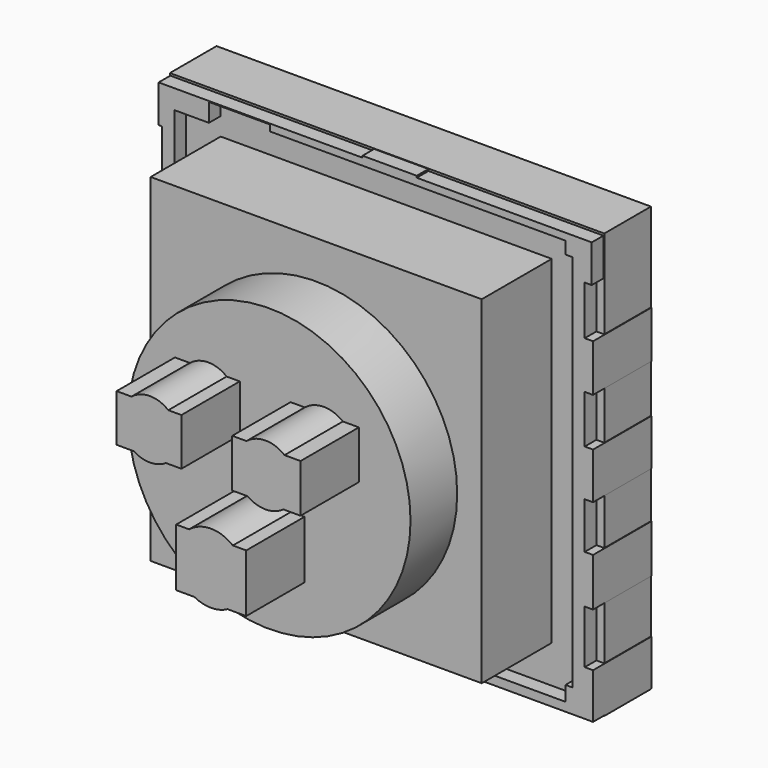
from build123d import *

# Parameters (mm, degrees)
F1_W      = 151.3319835067
F1_H      = 147.9758322239
F2_DEPTH  = 20.066
F3_W      = 75.2840787172
F3_H      = 76.1998519301
F3_H_2    = 71.7759802938
F3_W_2    = 76.0479047894
F4_DEPTH  = 0.254
F5_R      = 49.1952148829
F6_DEPTH  = 25.4
F7_R      = 49.1952148829
F8_DEPTH  = 25.4
F10_R     = 3.1853850864
F10_R_2   = 3.4787314223
F10_R_3   = 3.5581054838
F10_R_4   = 2.8783548202
F10_R_5   = 2.4598319218
F10_R_6   = 3.3699911713
F10_R_7   = 3.478728155
F10_R_8   = 3.1114703305
F10_R_9   = 3.1412466135
F10_R_10  = 3.2433066159
F10_R_11  = 3.5711592921
F10_R_12  = 2.6246103999
F10_R_13  = 3.3699920988
F10_R_14  = 3.4787300337
F10_R_15  = 3.4787284
F10_R_16  = 3.4111759436
F10_R_17  = 2.7289404217
F10_R_18  = 3.3002128489
F10_R_19  = 4.0130328481
F10_R_20  = 3.4787270114
F11_DEPTH = 25.4
F0_W      = 2.5908052921
F0_H      = 16.4592005312
F0_W_2    = 4.267193377
F0_H_2    = 17.0687958598
F0_H_3    = 16.7640019208
F0_W_3    = 3.8100033998
F0_H_4    = 16.154400073
F0_W_4    = 18.8976023346
F0_H_5    = 2.438403666
F0_H_6    = 0.6095990539
F0_H_7    = 16.7640000582
F0_W_5    = 34.7471982241
F0_H_8    = 18.592800945
F0_W_6    = 17.0688033104
F0_W_7    = 4.2672008276
F0_W_8    = 21.3360004127
F0_H_9    = 3.0480027199
F0_W_9    = 2.8956010938
F12_DEPTH = 25.4
F13_W     = 115.3296120465
F13_H     = 117.7704520524
F14_DEPTH = 50.8
F15_R     = 10.1970754687
F15_R_2   = 10.573540908
F15_R_3   = 12.1455637772
F16_DEPTH = 25.4
F17_W     = 22.5777532905
F17_H     = 16.4756593294
F17_W_2   = 23.7981723621
F17_H_2   = 16.7807638645
F17_W_3   = 24.4083832949
F17_H_3   = 20.1369160786
F18_DEPTH = 25.4


with BuildPart() as f2:
    # F1 (on Front) → F2 (new body)
    with BuildSketch(Plane.XZ):
        with Locations((0.3819130361, 2.2119358182)):
            Rectangle(F1_W, F1_H)
    extrude(amount=F2_DEPTH)

    # F3 (on face) → F4 (join)
    with BuildSketch(Plane.XZ.offset(20.066)):
        with Locations((-37.6420393586, 38.0999259651)):
            Rectangle(F3_W, F3_H)
        with Locations((-37.6420393586, -35.8879901469)):
            Rectangle(F3_W, F3_H_2)
        with Locations((38.0239523947, -35.8879901469)):
            Rectangle(F3_W_2, F3_H_2)
        with Locations((38.0239523947, 38.0999259651)):
            Rectangle(F3_W_2, F3_H)
    extrude(amount=F4_DEPTH)

    # F5 (on face) → F6 (join)
    with BuildSketch(Plane.XZ.offset(20.32)):
        Circle(F5_R)
    extrude(amount=F6_DEPTH)

    # F7 (on face) → F8 (join)
    with BuildSketch(Plane.XZ.offset(45.72)):
        Circle(F7_R)
    extrude(amount=F8_DEPTH)

    # F10 (on Front) → F11 (join)
    with BuildSketch(Plane.XZ):
        with Locations((45.2323183417, 56.9782480597)):
            Circle(F10_R)
        with Locations((18.0779919028, 56.6731393337)):
            Circle(F10_R_2)
        with Locations((-8.771231398, 56.6731393337)):
            Circle(F10_R_3)
        with Locations((-31.6540896893, 56.6731393337)):
            Circle(F10_R_4)
        with Locations((-49.3501722813, 56.6731393337)):
            Circle(F10_R_5)
        with Locations((45.8425283432, 20.0605653226)):
            Circle(F10_R_6)
        with Locations((18.0779919028, 19.1452521831)):
            Circle(F10_R_7)
        with Locations((-8.1610223278, 20.0605653226)):
            Circle(F10_R_8)
        with Locations((-28.9081465453, 19.1452521831)):
            Circle(F10_R_9)
        with Locations((-52.4012185633, 18.2299371809)):
            Circle(F10_R_10)
        with Locations((46.4527383447, -12.8907542676)):
            Circle(F10_R_11)
        with Locations((19.6035150439, -12.5856492668)):
            Circle(F10_R_12)
        with Locations((-8.4661273286, -12.5856492668)):
            Circle(F10_R_13)
        with Locations((-31.0438796878, -13.1958574057)):
            Circle(F10_R_14)
        with Locations((-52.4012185633, -12.2805442661)):
            Circle(F10_R_15)
        with Locations((46.4527383447, -45.8420701325)):
            Circle(F10_R_16)
        with Locations((20.5188300461, -45.536968857)):
            Circle(F10_R_17)
        with Locations((-10.2967554703, -46.75738886)):
            Circle(F10_R_18)
        with Locations((-31.6540896893, -47.0624901354)):
            Circle(F10_R_19)
        with Locations((-52.4012185633, -47.3675951362)):
            Circle(F10_R_20)
    extrude(amount=F11_DEPTH)

    # F0 (on Front) → F12 (join)
    with BuildSketch(Plane.XZ):
        with Locations((-75.2094015479, 37.0332021266)):
            Rectangle(F0_W, F0_H)
        with Locations((-71.7804022133, 53.7972003222)):
            Rectangle(F0_W_2, F0_H_2)
        with Locations((-71.7804022133, 37.0332021266)):
            Rectangle(F0_W_2, F0_H)
        Polygon((-73.9139989018, 72.9995965958), (-73.9139989018, 62.3315982521), (-69.6468055248, 62.3315982521), (-69.6468055248, 68.7323957682), (-57.6071999967, 68.7323957682), (-57.6071999967, 72.9995965958), align=None)
        Polygon((-75.1331970096, 62.3315982521), (-73.9139989018, 62.3315982521), (-73.9139989018, 72.9995965958), (-57.6071999967, 72.9995965958), (-57.6071999967, 75.1332044601), (-36.271199584, 75.1332044601), (-36.271199584, 72.9995965958), (-4.1148010641, 72.9995965958), (-4.1148010641, 75.4380002618), (-75.1331970096, 75.4380002618), align=None)
        with Locations((-71.7804022133, 20.4216009006)):
            Rectangle(F0_W_2, F0_H_3)
        with Locations((-75.8190006018, 3.9623999037)):
            Rectangle(F0_W_3, F0_H_4)
        with Locations((-71.7804022133, 3.9623999037)):
            Rectangle(F0_W_2, F0_H_4)
        with Locations((-71.7804022133, -12.1920001693)):
            Rectangle(F0_W_2, F0_H_4)
        with Locations((5.3340001032, 74.2187984288)):
            Rectangle(F0_W_4, F0_H_5)
        with Locations((5.3340001032, 75.7427997887)):
            Rectangle(F0_W_4, F0_H_6)
        with Locations((-75.2094015479, -28.6512002349)):
            Rectangle(F0_W, F0_H_7)
        with Locations((-71.7804022133, -28.6512002349)):
            Rectangle(F0_W_2, F0_H_7)
        with Locations((32.1564003825, 74.2187984288)):
            Rectangle(F0_W_5, F0_H_5)
        with Locations((-71.7804022133, -46.3296007365)):
            Rectangle(F0_W_2, F0_H_8)
        with Locations((58.0644011497, 74.2187984288)):
            Rectangle(F0_W_6, F0_H_5)
        Polygon((-73.9139989018, -68.4275999665), (-73.9139989018, -55.626001209), (-76.504804194, -55.626001209), (-76.504804194, -71.4756026864), (-57.6071999967, -71.4756026864), (-57.6071999967, -68.4275999665), align=None)
        Polygon((-69.6468055248, -55.626001209), (-73.9139989018, -55.626001209), (-73.9139989018, -68.4275999665), (-57.6071999967, -68.4275999665), (-57.6071999967, -63.2460042834), (-69.6468055248, -63.2460042834), align=None)
        Polygon((75.7427960634, 75.4380002618), (66.5988028049, 75.4380002618), (66.5988028049, 72.9995965958), (73.304399848, 72.9995965958), (73.304399848, 62.3315982521), (75.7427960634, 62.3315982521), align=None)
        with Locations((71.1707994342, 53.7972003222)):
            Rectangle(F0_W_7, F0_H_2)
        with Locations((71.1707994342, 37.0332021266)):
            Rectangle(F0_W_7, F0_H)
        Polygon((73.304399848, 72.9995965958), (66.5988028049, 72.9995965958), (66.5988028049, 68.7323957682), (69.0371990204, 68.7323957682), (69.0371990204, 62.3315982521), (73.304399848, 62.3315982521), align=None)
        with Locations((-46.9391997904, -69.9516013265)):
            Rectangle(F0_W_8, F0_H_9)
        with Locations((74.7522003949, 37.0332021266)):
            Rectangle(F0_W_9, F0_H)
        with Locations((71.1707994342, 20.4216009006)):
            Rectangle(F0_W_7, F0_H_3)
        Polygon((-4.1148010641, -68.4275999665), (-36.271199584, -68.4275999665), (-36.271199584, -71.4756026864), (49.5299994946, -71.4756026864), (49.5299994946, -68.4275999665), (14.7828012705, -68.4275999665), (14.7828012705, -70.8660036325), (-4.1148010641, -70.8660036325), align=None)
        with Locations((71.1707994342, 3.9623999037)):
            Rectangle(F0_W_7, F0_H_4)
        with Locations((74.7522003949, 3.9623999037)):
            Rectangle(F0_W_9, F0_H_4)
        with Locations((71.1707994342, -12.1920001693)):
            Rectangle(F0_W_7, F0_H_4)
        with Locations((58.0644011497, -69.9516013265)):
            Rectangle(F0_W_6, F0_H_9)
        with Locations((71.1707994342, -28.6512002349)):
            Rectangle(F0_W_7, F0_H_7)
        Polygon((66.5988028049, -68.4275999665), (66.5988028049, -71.4756026864), (76.2000009418, -71.4756026864), (76.2000009418, -55.626001209), (73.304399848, -55.626001209), (73.304399848, -68.4275999665), align=None)
        with Locations((74.7522003949, -28.6512002349)):
            Rectangle(F0_W_9, F0_H_7)
        with Locations((71.1707994342, -46.3296007365)):
            Rectangle(F0_W_7, F0_H_8)
        Polygon((66.5988028049, -63.2460042834), (66.5988028049, -68.4275999665), (73.304399848, -68.4275999665), (73.304399848, -55.626001209), (69.0371990204, -55.626001209), (69.0371990204, -63.2460042834), align=None)
    extrude(amount=F12_DEPTH)

    # F13 (on Front) → F14 (join)
    with BuildSketch(Plane.XZ):
        with Locations((0.0768061727, 3.5849083215)):
            Rectangle(F13_W, F13_H)
    extrude(amount=F14_DEPTH)

    # F15 (on face) → F16 (join)
    with BuildSketch(Plane.XZ.offset(71.12)):
        with Locations((-21.2805289775, 15.4839931056)):
            Circle(F15_R)
        with Locations((18.993306905, 14.5686790347)):
            Circle(F15_R_2)
        with Locations((0, -20.2132686973)):
            Circle(F15_R_3)
    extrude(amount=F16_DEPTH)

    # F17 (on face) → F18 (join)
    with BuildSketch(Plane.XZ.offset(71.12)):
        with Locations((-21.5856330469, 15.1788888033)):
            Rectangle(F17_W, F17_H)
        with Locations((19.2984095775, 14.4161265343)):
            Rectangle(F17_W_2, F17_H_2)
        with Locations((0.0768071041, -20.8234782331)):
            Rectangle(F17_W_3, F17_H_3)
    extrude(amount=F18_DEPTH)


solid = f2.part
